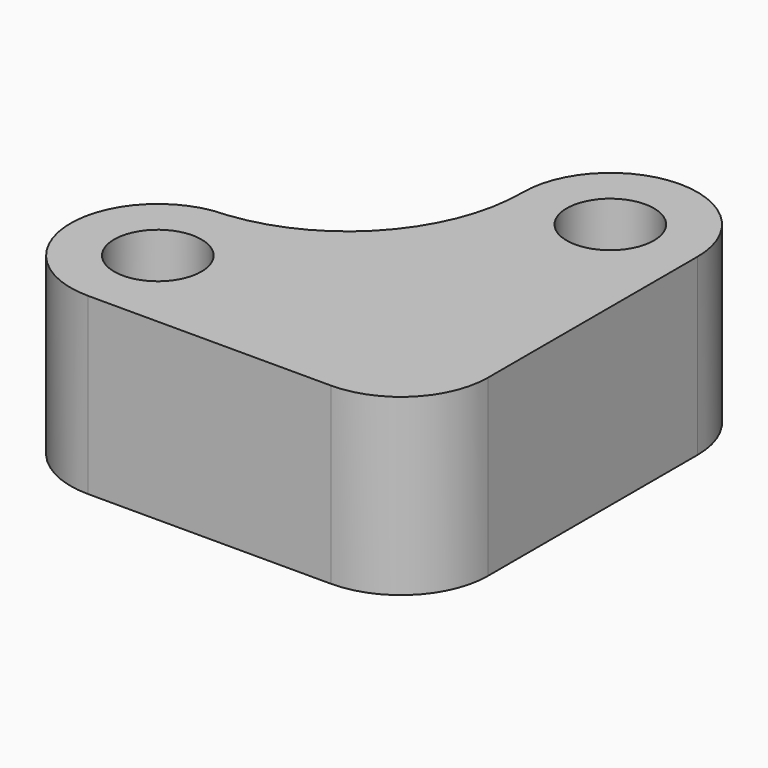
from build123d import *

# Parameters (mm, degrees)
F0_R     = 2.5
F1_DEPTH = 10


with BuildPart() as f1:
    # F0 (on Top) → F1 (new body)
    with BuildSketch(Plane.XY):
        with BuildLine():
            ThreePointArc((0, -5), (-3.5355339059, 3.5355339059), (5, 0))
            Line((5, 0), (5, 15))
            ThreePointArc((5, 15), (0, 10), (-5, 15))
            ThreePointArc((-5, 15), (-7.5406677948, 8.2821226215), (-13.9291371274, 5))
            ThreePointArc((-13.9291371274, 5), (-10.3936032215, 3.5355339059), (-8.9291371274, 0))
            ThreePointArc((-8.9291371274, 0), (-10.3936032215, -3.5355339059), (-13.9291371274, -5))
            Line((-13.9291371274, -5), (0, -5))
        make_face()
        with BuildLine():
            ThreePointArc((-14.6420213859, 4.9489186732), (-18.9163504458, -0.3573560088), (-13.9291371274, -5))
            ThreePointArc((-13.9291371274, -5), (-10.3936032215, -3.5355339059), (-8.9291371274, 0))
            ThreePointArc((-8.9291371274, 0), (-10.3936032215, 3.5355339059), (-13.9291371274, 5))
            ThreePointArc((-13.9291371274, 5), (-14.2851227554, 4.9680884652), (-14.6420213859, 4.9489186732))
        make_face()
        with Locations((-13.9291371274, 0)):
            Circle(F0_R, mode=Mode.SUBTRACT)
        with BuildLine():
            ThreePointArc((0, -5), (3.5355339059, -3.5355339059), (5, 0))
            ThreePointArc((5, 0), (-3.5355339059, 3.5355339059), (0, -5))
        make_face()
        with BuildLine():
            ThreePointArc((5, 15), (0, 20), (-5, 15))
            ThreePointArc((-5, 15), (0, 10), (5, 15))
        make_face()
        with Locations((0, 15)):
            Circle(F0_R, mode=Mode.SUBTRACT)
    extrude(amount=F1_DEPTH)


solid = f1.part
